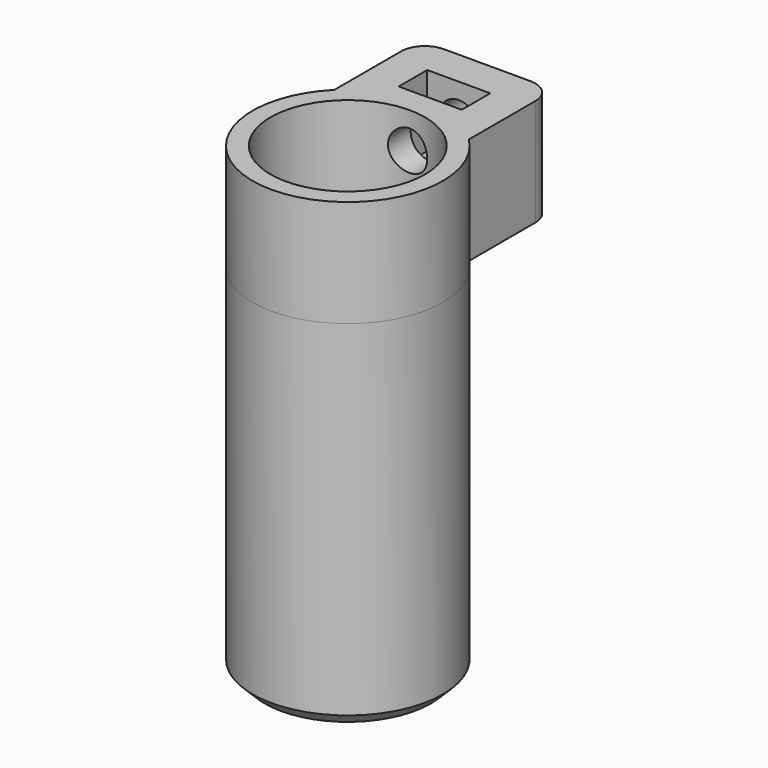
from build123d import *

# Parameters (mm, degrees)
PAD_DEPTH       = 9
SKETCH001_R     = 8
PAD001_DEPTH    = 30
SKETCH002_R     = 6.5
POCKET_DEPTH    = 35
POCKET001_DEPTH = 5
CHAMFER_SIZE    = 1
FILLET_R        = 2
SKETCH004_W     = 5.296944
SKETCH004_H     = 3
POCKET002_DEPTH = 6
SKETCH005_R     = 1.65
HOLE_DEPTH      = 14.00858
HOLE_TIPS_R     = 1.65


with BuildPart() as part:
    # Sketch → Pad (new body)
    with BuildSketch(Plane.XY):
        with BuildLine():
            ThreePointArc((-5.656854, 5.656854), (0.011836, -7.999991), (5.64009, 5.673569))
            Line((5.64009, 14.673569), (5.64009, 5.673569))
            Line((-5.656854, 14.673569), (5.64009, 14.673569))
            Line((-5.656854, 5.656854), (-5.656854, 14.673569))
        make_face()
    extrude(amount=PAD_DEPTH)

    # Sketch001 (on Face5 of Pad) → Pad001 (join)
    with BuildSketch(Plane(origin=(0, 0, 0), x_dir=(1, 0, 0), z_dir=(0, 0, -1))):
        Circle(SKETCH001_R)
    extrude(amount=PAD001_DEPTH)

    # Sketch002 (on Face5 of Pad001) → Pocket (cut)
    with BuildSketch(Plane.XY.offset(9)):
        Circle(SKETCH002_R)
    extrude(amount=-POCKET_DEPTH, mode=Mode.SUBTRACT)

    # Sketch003 (on Face8 of Pocket) → Pocket001 (cut)
    with BuildSketch(Plane(origin=(0, 0, -30), x_dir=(1, 0, 0), z_dir=(0, 0, -1))):
        with BuildLine():
            Line((-1.930765, 1.588126), (1.930765, 1.588126))
            ThreePointArc((2.063156, -1.411874), (2.497569, 0.110218), (1.930765, 1.588126))
            Line((-2.063156, -1.411874), (2.063156, -1.411874))
            ThreePointArc((-1.930765, 1.588126), (-2.497569, 0.110218), (-2.063156, -1.411874))
        make_face()
    extrude(amount=-POCKET001_DEPTH, mode=Mode.SUBTRACT)

    # Chamfer
    chamfer_edges = [part.edges().sort_by_distance(p)[0] for p in [
        (-8, 0, -30),
    ]]
    chamfer(chamfer_edges, length=CHAMFER_SIZE)

    # Fillet
    fillet_edges = [part.edges().sort_by_distance(p)[0] for p in [
        (5.64009, 14.673569, 4.5),
        (-5.656854, 14.673569, 4.5),
    ]]
    fillet(fillet_edges, radius=FILLET_R)

    # Sketch004 (on Face9 of Fillet) → Pocket002 (cut)
    with BuildSketch(Plane.XY.offset(9)):
        with Locations((-0.008382, 10.173569)):
            Rectangle(SKETCH004_W, SKETCH004_H)
    extrude(amount=-POCKET002_DEPTH, mode=Mode.SUBTRACT)

    # Sketch005 (on Face5 of Pocket002) → Hole (cut)
    with BuildSketch(Plane(origin=(0, 14.673569, 0), x_dir=(-1, 0, 0), z_dir=(0, 1, 0))):
        with Locations((0, 6)):
            Circle(SKETCH005_R)
    extrude(amount=-HOLE_DEPTH, mode=Mode.SUBTRACT)

    # Hole tips → Hole tip 1 section 0
    with BuildSketch(Plane(origin=(0, 0.664989, 0), x_dir=(-1, 0, 0), z_dir=(0, 1, 0)), mode=Mode.PRIVATE) as hole_tip_1_s0:
        with Locations((0, 6)):
            Circle(HOLE_TIPS_R)
    loft([hole_tip_1_s0.sketch, Vertex(0, -0.326431, 6)], mode=Mode.SUBTRACT)


solid = part.part
